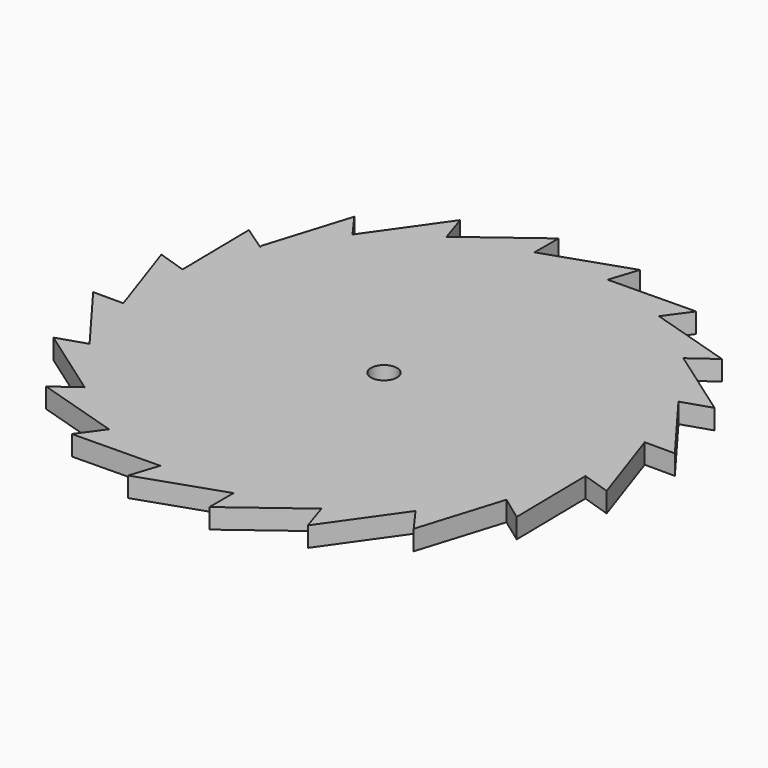
from build123d import *

# Parameters (mm, degrees)
F0_R     = 8.483319
F0_R_2   = 2.5
F1_DEPTH = 3.81


with BuildPart() as f1:
    # F0 (on Top) → F1 (new body)
    with BuildSketch(Plane.XY):
        Polygon((-32.063336, -31.690658), (-36.740027, -35.088473), (-20.701093, -40.047722), (-24.098908, -44.724413), (-7.312483, -44.484637), (-9.098819, -49.982417), (6.791925, -44.567085), (6.791925, -50.347793), (20.231491, -40.286997), (22.017828, -45.784776), (31.690658, -32.063336), (35.088473, -36.740027), (40.047722, -20.701093), (44.724413, -24.098908), (44.484637, -7.312483), (49.982417, -9.098819), (44.567085, 6.791925), (50.347793, 6.791925), (40.286997, 20.231491), (45.784776, 22.017828), (32.063336, 31.690658), (36.740027, 35.088473), (20.701093, 40.047722), (24.098908, 44.724413), (7.312483, 44.484637), (9.098819, 49.982417), (-6.791925, 44.567085), (-6.791925, 50.347793), (-20.231491, 40.286997), (-22.017828, 45.784776), (-31.690658, 32.063336), (-35.088473, 36.740027), (-40.047722, 20.701093), (-39.915663, 20.212912), (-44.716039, 23.512671), (-44.484637, 7.312483), (-49.982417, 9.098819), (-44.567085, -6.791925), (-50.347793, -6.791925), (-40.286997, -20.231491), (-45.784776, -22.017828), align=None)
        Circle(F0_R, mode=Mode.SUBTRACT)
        Circle(F0_R)
        Circle(F0_R_2, mode=Mode.SUBTRACT)
    extrude(amount=F1_DEPTH)


solid = f1.part
